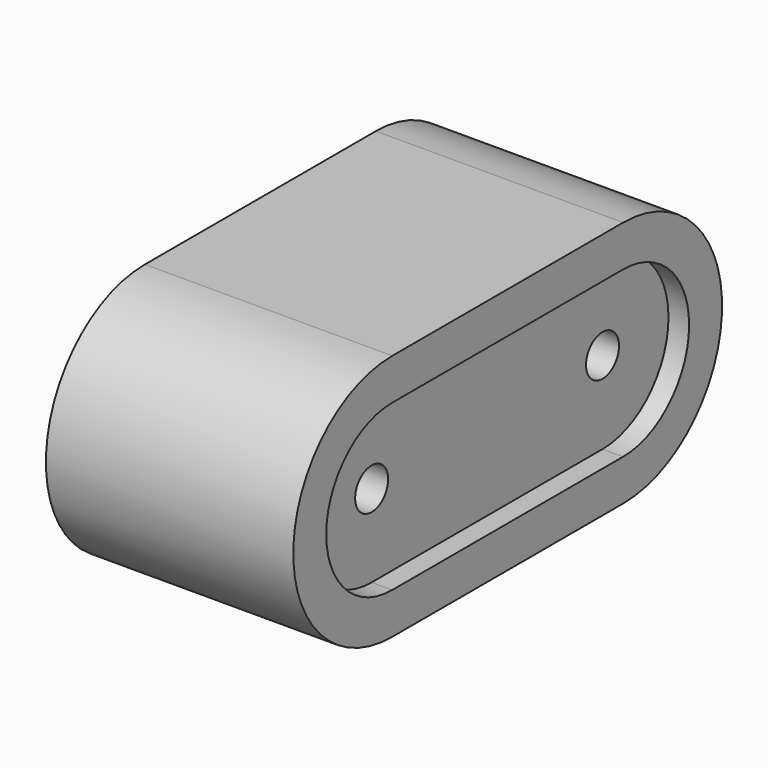
from build123d import *

# Parameters (mm, degrees)
F0_W     = 70
F0_H     = 10
F1_DEPTH = 30
F0_H_2   = 40
F2_DEPTH = 25
F3_R     = 5
F4_DEPTH = 55.001


with BuildPart() as f1:
    # F0 (on Right) → F1 (new body, symmetric)
    with BuildSketch(Plane.YZ):
        with Locations((0, 25)):
            Rectangle(F0_W, F0_H)
        with BuildLine():
            Line((-35, 20), (-35, 30))
            ThreePointArc((-35, 30), (-65, 0), (-35, -30))
            Line((-35, -30), (-35, -20))
            ThreePointArc((-35, -20), (-55, 0), (-35, 20))
        make_face()
        with BuildLine():
            ThreePointArc((35, -30), (65, 0), (35, 30))
            Line((35, 30), (35, 20))
            ThreePointArc((35, 20), (55, 0), (35, -20))
            Line((35, -20), (35, -30))
        make_face()
        with Locations((0, -25)):
            Rectangle(F0_W, F0_H)
    extrude(amount=F1_DEPTH, both=True)

    # F0 (on Right) → F2 (join, symmetric)
    with BuildSketch(Plane.YZ):
        with BuildLine():
            Line((-35, -20), (-35, 20))
            ThreePointArc((-35, 20), (-55, 0), (-35, -20))
        make_face()
        Rectangle(F0_W, F0_H_2)
        with BuildLine():
            ThreePointArc((35, -20), (55, 0), (35, 20))
            Line((35, 20), (35, -20))
        make_face()
    extrude(amount=F2_DEPTH, both=True)

    # F3 (on face) → F4 (cut, through all)
    with BuildSketch(Plane.YZ.offset(25)):
        with Locations((-35, 0)):
            Circle(F3_R)
        with Locations((35, 0)):
            Circle(F3_R)
    extrude(amount=-F4_DEPTH, mode=Mode.SUBTRACT)


solid = f1.part
